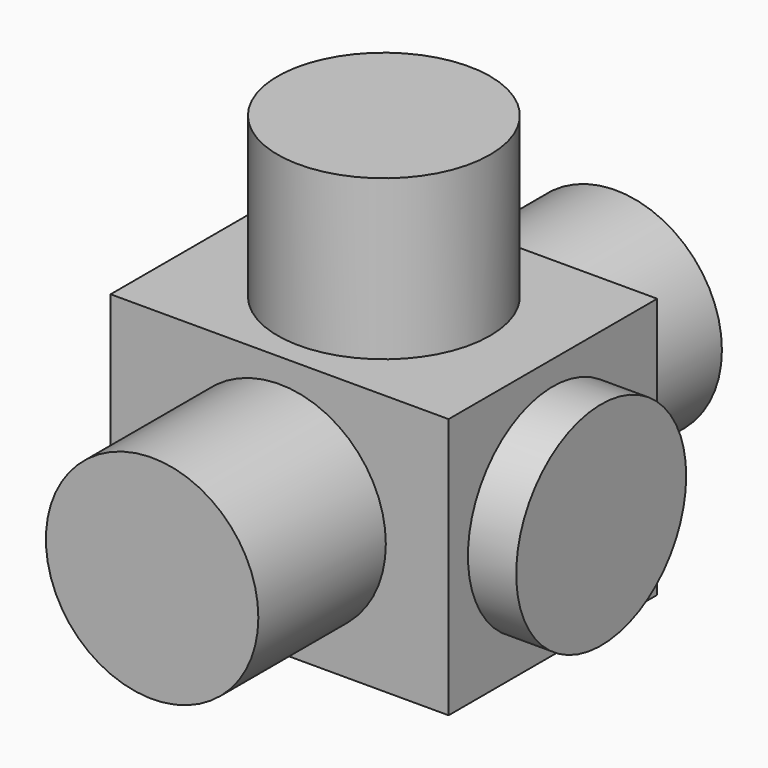
from build123d import *

# Parameters (mm, degrees)
F0_R     = 110
F1_DEPTH = 300
F2_R     = 110
F3_DEPTH = 300
F4_W     = 270
F4_H     = 270
F5_DEPTH = 175
F6_R     = 110
F7_DEPTH = 50


with BuildPart() as f1:
    # F0 (on Front) → F1 (new body, symmetric)
    with BuildSketch(Plane.XZ):
        Circle(F0_R)
    extrude(amount=F1_DEPTH, both=True)

    # F2 (on Top) → F3 (join)
    with BuildSketch(Plane.XY):
        Circle(F2_R)
    extrude(amount=F3_DEPTH)

    # F4 (on Right) → F5 (join, symmetric)
    with BuildSketch(Plane.YZ):
        Rectangle(F4_W, F4_H)
    extrude(amount=F5_DEPTH, both=True)

    # F6 (on face) → F7 (join)
    with BuildSketch(Plane.YZ.offset(175)):
        Circle(F6_R)
    extrude(amount=F7_DEPTH)


solid = f1.part
